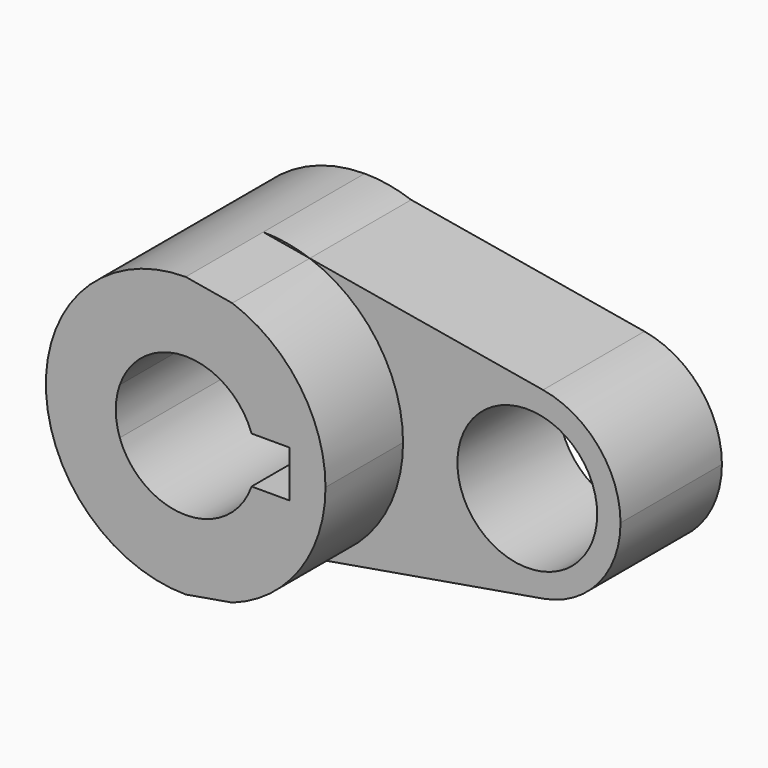
from build123d import *

# Parameters (mm, degrees)
F1_DEPTH = 45.72
F0_R     = 14.2875
F2_DEPTH = 25.908


with BuildPart() as f1:
    # F0 (on Front) → F1 (new body)
    with BuildSketch(Plane.XZ):
        with BuildLine():
            Line((9.5121844836, 26.9452959039), (0, 28.575))
            ThreePointArc((0, 28.575), (-28.575, 0), (0, -28.575))
            Line((0, -28.575), (9.5121844836, -26.9452959039))
            ThreePointArc((9.5121844836, -26.9452959039), (23.3274655355, -16.5033322905), (28.575, 0))
            ThreePointArc((28.575, 0), (23.3274655355, 16.5033322905), (9.5121844836, 26.9452959039))
        make_face()
        with BuildLine():
            ThreePointArc((-13.4703841816, 4.7625), (0, 14.2875), (13.4703841816, 4.7625))
            Line((13.4703841816, 4.7625), (21.229936273, 4.7625))
            Line((21.229936273, 4.7625), (21.229936273, -4.7625))
            Line((21.229936273, -4.7625), (13.4703841816, -4.7625))
            ThreePointArc((13.4703841816, -4.7625), (0, -14.2875), (-13.4703841816, -4.7625))
            Line((-13.4703841816, -4.7625), (-16.870063727, -4.7625))
            Line((-16.870063727, -4.7625), (-16.870063727, 4.7625))
            Line((-16.870063727, 4.7625), (-13.4703841816, 4.7625))
        make_face(mode=Mode.SUBTRACT)
        with BuildLine():
            ThreePointArc((-13.4703841816, -4.7625), (-14.2875, 0), (-13.4703841816, 4.7625))
            Line((-13.4703841816, 4.7625), (-16.870063727, 4.7625))
            Line((-16.870063727, 4.7625), (-16.870063727, -4.7625))
            Line((-16.870063727, -4.7625), (-13.4703841816, -4.7625))
        make_face()
    extrude(amount=F1_DEPTH)

    # F0 (on Front) → F2 (join)
    with BuildSketch(Plane.XZ):
        with BuildLine():
            Line((9.5121844836, 26.9452959039), (0, 28.575))
            ThreePointArc((0, 28.575), (-28.575, 0), (0, -28.575))
            Line((0, -28.575), (9.5121844836, -26.9452959039))
            ThreePointArc((9.5121844836, -26.9452959039), (23.3274655355, -16.5033322905), (28.575, 0))
            ThreePointArc((28.575, 0), (23.3274655355, 16.5033322905), (9.5121844836, 26.9452959039))
        make_face()
        with BuildLine():
            ThreePointArc((-13.4703841816, 4.7625), (0, 14.2875), (13.4703841816, 4.7625))
            Line((13.4703841816, 4.7625), (21.229936273, 4.7625))
            Line((21.229936273, 4.7625), (21.229936273, -4.7625))
            Line((21.229936273, -4.7625), (13.4703841816, -4.7625))
            ThreePointArc((13.4703841816, -4.7625), (0, -14.2875), (-13.4703841816, -4.7625))
            Line((-13.4703841816, -4.7625), (-16.870063727, -4.7625))
            Line((-16.870063727, -4.7625), (-16.870063727, 4.7625))
            Line((-16.870063727, 4.7625), (-13.4703841816, 4.7625))
        make_face(mode=Mode.SUBTRACT)
        with BuildLine():
            ThreePointArc((9.5121844836, 26.9452959039), (4.8253908933, 28.1646272428), (0, 28.575))
            Line((0, 28.575), (9.5121844836, 26.9452959039))
        make_face()
        with BuildLine():
            Line((9.5121844836, -26.9452959039), (0, -28.575))
            ThreePointArc((0, -28.575), (4.8253908933, -28.1646272428), (9.5121844836, -26.9452959039))
        make_face()
        with BuildLine():
            Line((57.1919272622, 18.7764181619), (9.5121844836, 26.9452959039))
            ThreePointArc((9.5121844836, 26.9452959039), (23.3274655355, 16.5033322905), (28.575, 0))
            ThreePointArc((28.575, 0), (23.3274655355, -16.5033322905), (9.5121844836, -26.9452959039))
            Line((9.5121844836, -26.9452959039), (57.1919272622, -18.7764181619))
            ThreePointArc((57.1919272622, -18.7764181619), (34.925, 0), (57.1919272622, 18.7764181619))
        make_face()
        with BuildLine():
            ThreePointArc((73.025, 0), (68.5383952831, 12.2804730295), (57.1919272622, 18.7764181619))
            ThreePointArc((57.1919272622, 18.7764181619), (34.925, 0), (57.1919272622, -18.7764181619))
            ThreePointArc((57.1919272622, -18.7764181619), (68.5383952831, -12.2804730295), (73.025, 0))
        make_face()
        with Locations((53.975, 0)):
            Circle(F0_R, mode=Mode.SUBTRACT)
    extrude(amount=F2_DEPTH)


solid = f1.part
